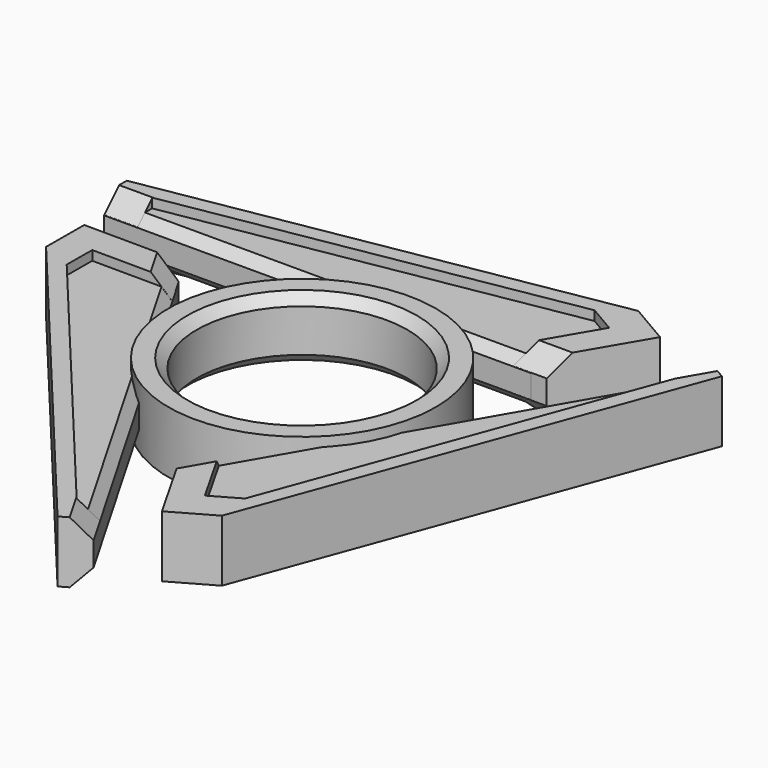
from build123d import *

# Parameters (mm, degrees)
F0_R      = 14.1
F0_R_2    = 11.1
F1_DEPTH  = 6.5
F4_DEPTH  = 4.5
F5_SIZE   = 1
F7_DEPTH  = 6.5
F8_SIZE   = 1
F9_SIZE   = 1.97
F10_COUNT = 3


with BuildPart() as f1:
    # F0 (on Top) → F1 (new body)
    with BuildSketch(Plane.XY):
        Circle(F0_R)
        Circle(F0_R_2, mode=Mode.SUBTRACT)
    extrude(amount=F1_DEPTH)

    # F5
    f5_edges = [f1.edges().sort_by_distance(p)[0] for p in [
        (-11.1, 0, 6.5),
        (11.1, 0, 3.25),
        (-11.1, 0, 0),
    ]]
    chamfer(f5_edges, length=F5_SIZE)


with BuildPart() as f4:
    # F3 (on offset) → F4 (new body)
    with BuildSketch(Plane.XY.offset(1)):
        Polygon((-3.7223040126, 12.6438429579), (0, 12.6438429579), (14, 12.6438429579), (14, 17.6438429579), (0, 17.6438429579), (-15.6498051779, 17.6438429579), (-31, 15.1438429579), (-31, 12.6438429579), align=None)
        Polygon((14, 17.6438429579), (14, 12.6438429579), (17.4631085247, 20.2055089176), (14.5014515147, 22.5544087589), (-15.6498051779, 17.6438429579), (0, 17.6438429579), align=None)
    extrude(amount=F4_DEPTH)

    # F6 (on Top) → F7 (join)
    with BuildSketch(Plane.XY):
        Polygon((16.3963711548, 19.972292254), (12.1168679007, 12.664), (15.6579706818, 12.664), (20.7110628913, 21.2933834729), (16.3963711548, 23.8199295776), (-31, 15.6457833946), (-31, 12.664), (-27.4822749197, 12.664), (-27.4822749197, 14.5935826004), (13.5089494603, 21.6630744653), align=None)
    extrude(amount=F7_DEPTH)

    # F8
    f8_edges = [f4.edges().sort_by_distance(p)[0] for p in [
        (-8.5, 12.643843, 5.5),
        (-8.5, 12.643843, 1),
    ]]
    chamfer(f8_edges, length=F8_SIZE)

    # F9
    f9_edges = [f4.edges().sort_by_distance(p)[0] for p in [
        (-29.241137, 12.664, 6.5),
        (13.887419, 12.664, 6.5),
        (-29.241137, 12.664, 0),
        (13.887419, 12.664, 0),
    ]]
    chamfer(f9_edges, length=F9_SIZE)


with BuildPart() as f10_1:
    # F10: instance of F4
    add(f4.part.rotate(Axis((0, 0, 0), (0, 0, -1)), 1 * 360 / F10_COUNT))


with BuildPart() as f10_2:
    # F10: instance of F4
    add(f4.part.rotate(Axis((0, 0, 0), (0, 0, -1)), 2 * 360 / F10_COUNT))


solid = Compound([f1.part, f4.part, f10_1.part, f10_2.part])
